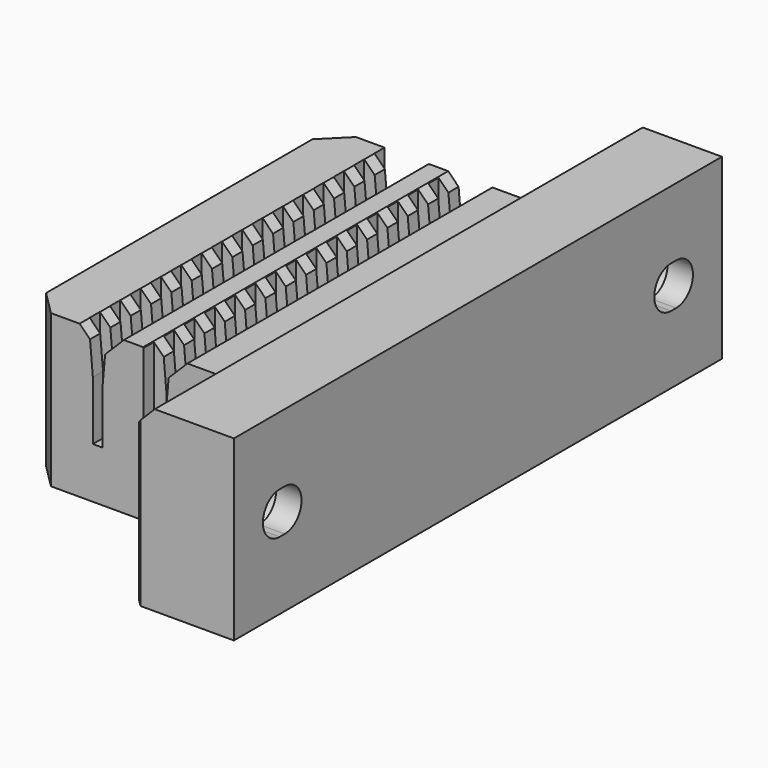
from build123d import *

# Parameters (mm, degrees)
PAD_DEPTH           = 14
POCKET_DEPTH        = 24.001
POCKET_DEPTH_BACK   = -24.001
SKETCH002_W         = 1.5
SKETCH002_H         = 1
POCKET001_DEPTH     = 10.001
LINEARPATTERN_COUNT = 15
LINEARPATTERN_PITCH = 2
POCKET002_DEPTH     = 8.001
POCKET003_DEPTH     = 6


with BuildPart() as part:
    # Sketch → Pad (new body)
    with BuildSketch(Plane.XY):
        Polygon((12.5, 24), (12.5, -24), (5.15, -24), (4.5, -23.35), (4.5, -15), (-9.1, -15), (-11, -13.1), (-11, 13.1), (-9.1, 15), (4.5, 15), (4.5, 23.35), (5.15, 24), align=None)
    extrude(amount=PAD_DEPTH)

    # Sketch001 → Pocket (cut, two sides)
    with BuildSketch(Plane.XZ) as pocket_sk:
        Polygon((6.5, 15), (6.5, 14.23), (4.5, 12.23), (4.5, 12), (1.64, 12), (0.165531, 10.525531), (-0.05, 8.062), (-0.05, 4), (-0.8, 4), (-0.8, 8.64), (-1.022434, 11.182434), (-1.84, 12), (-3.36, 12), (-4.834469, 10.525531), (-5.05, 8.062), (-5.05, 4), (-5.8, 4), (-5.8, 8.64), (-6.022434, 11.182434), (-6.84, 12), (-12, 12), (-12, 15), align=None)
    extrude(amount=-POCKET_DEPTH, mode=Mode.SUBTRACT)
    extrude(pocket_sk.sketch, amount=-POCKET_DEPTH_BACK, mode=Mode.SUBTRACT)

    # Sketch002 → Pocket001 (cut, through all)
    with BuildSketch(Plane.XY.offset(4)):
        with Locations((-6.1, 14.5)):
            Rectangle(SKETCH002_W, SKETCH002_H)
        with Locations((-1.05, 13.5)):
            Rectangle(SKETCH002_W, SKETCH002_H)
    pocket001 = extrude(amount=POCKET001_DEPTH, mode=Mode.SUBTRACT)

    # LinearPattern: Pocket001 ×15
    with Locations(*[(0, -i * LINEARPATTERN_PITCH, 0) for i in range(1, LINEARPATTERN_COUNT)]):
        add(pocket001, mode=Mode.SUBTRACT)

    # Sketch003 → Pocket002 (cut, through all)
    with BuildSketch(Plane.YZ.offset(4.5)):
        with BuildLine():
            ThreePointArc((-19.5, 8.65), (-21.15, 7), (-19.5, 5.35))
            Line((-19.5, 5.35), (-19, 5.35))
            ThreePointArc((-19, 5.35), (-17.35, 7), (-19, 8.65))
            Line((-19, 8.65), (-19.5, 8.65))
        make_face()
        with BuildLine():
            ThreePointArc((19, 8.65), (17.35, 7), (19, 5.35))
            Line((19, 5.35), (19.5, 5.35))
            ThreePointArc((19.5, 5.35), (21.15, 7), (19.5, 8.65))
            Line((19.5, 8.65), (19, 8.65))
        make_face()
    extrude(amount=POCKET002_DEPTH, mode=Mode.SUBTRACT)

    # Sketch004 → Pocket003 (cut)
    with BuildSketch(Plane.YZ.offset(4.5)):
        with BuildLine():
            ThreePointArc((-19.5, 10.1), (-22.6, 7), (-19.5, 3.9))
            Line((-19.5, 3.9), (-19, 3.9))
            ThreePointArc((-19, 3.9), (-15.9, 7), (-19, 10.1))
            Line((-19, 10.1), (-19.5, 10.1))
        make_face()
        with BuildLine():
            ThreePointArc((19, 10.1), (15.9, 7), (19, 3.9))
            Line((19, 3.9), (19.5, 3.9))
            ThreePointArc((19.5, 3.9), (22.6, 7), (19.5, 10.1))
            Line((19.5, 10.1), (19, 10.1))
        make_face()
    extrude(amount=POCKET003_DEPTH, mode=Mode.SUBTRACT)


solid = part.part
